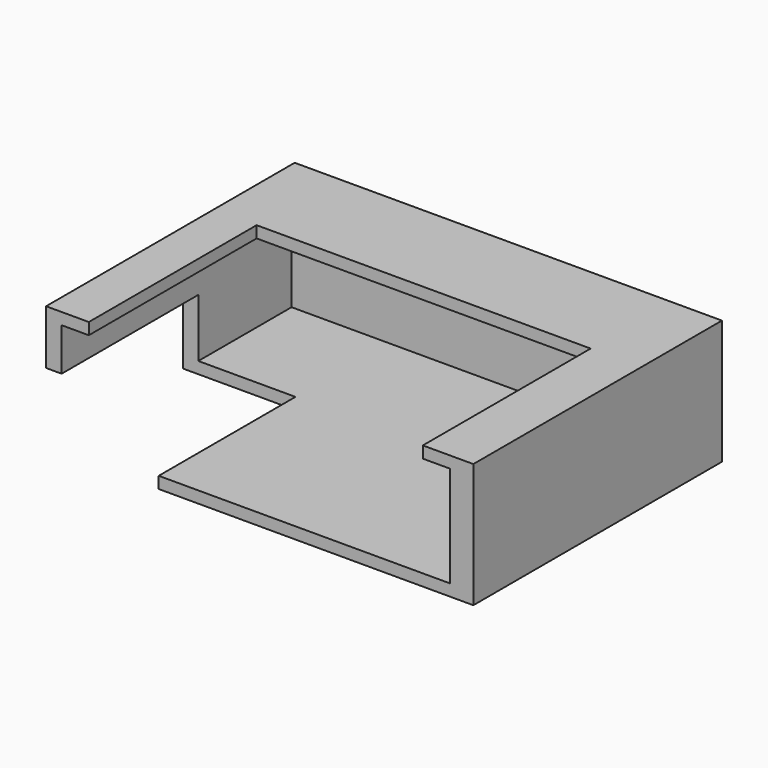
from build123d import *

# Parameters (mm, degrees)
BOX093_W     = 17
BOX093_H     = 24
BOX093_DEPTH = 11
BOX092_W     = 43
BOX092_H     = 27
BOX092_DEPTH = 11
BOX091_W     = 50
BOX091_H     = 37
BOX091_DEPTH = 13
BOX090_W     = 55
BOX090_H     = 40
BOX090_DEPTH = 16


with BuildPart() as cube020:
    # Box093 → Box093 (new body)
    with BuildSketch(Plane(origin=(337.5, 106, 176), x_dir=(1, 0, 0), z_dir=(0, 0, -1))):
        with Locations((8.5, 12)):
            Rectangle(BOX093_W, BOX093_H)
    extrude(amount=BOX093_DEPTH)


with BuildPart() as cube019:
    # Box092 → Box092 (new body)
    with BuildSketch(Plane(origin=(345.5, 111, 185), x_dir=(1, 0, 0), z_dir=(0, 0, -1))):
        with Locations((21.5, 13.5)):
            Rectangle(BOX092_W, BOX092_H)
    extrude(amount=BOX092_DEPTH)


with BuildPart() as cube018:
    # Box091 → Box091 (new body)
    with BuildSketch(Plane(origin=(342, 121, 181.5), x_dir=(1, 0, 0), z_dir=(0, 0, -1))):
        with Locations((25, 18.5)):
            Rectangle(BOX091_W, BOX091_H)
    extrude(amount=BOX091_DEPTH)


with BuildPart() as cut010:
    # Box090 → Box090 (new body)
    with BuildSketch(Plane(origin=(340, 124, 183), x_dir=(1, 0, 0), z_dir=(0, 0, -1))):
        with Locations((27.5, 20)):
            Rectangle(BOX090_W, BOX090_H)
    extrude(amount=BOX090_DEPTH)

    # Cut008: cut Cube018
    add(cube018.part, mode=Mode.SUBTRACT)

    # Cut009: cut Cube019
    add(cube019.part, mode=Mode.SUBTRACT)

    # Cut010: cut Cube020
    add(cube020.part, mode=Mode.SUBTRACT)


solid = cut010.part
